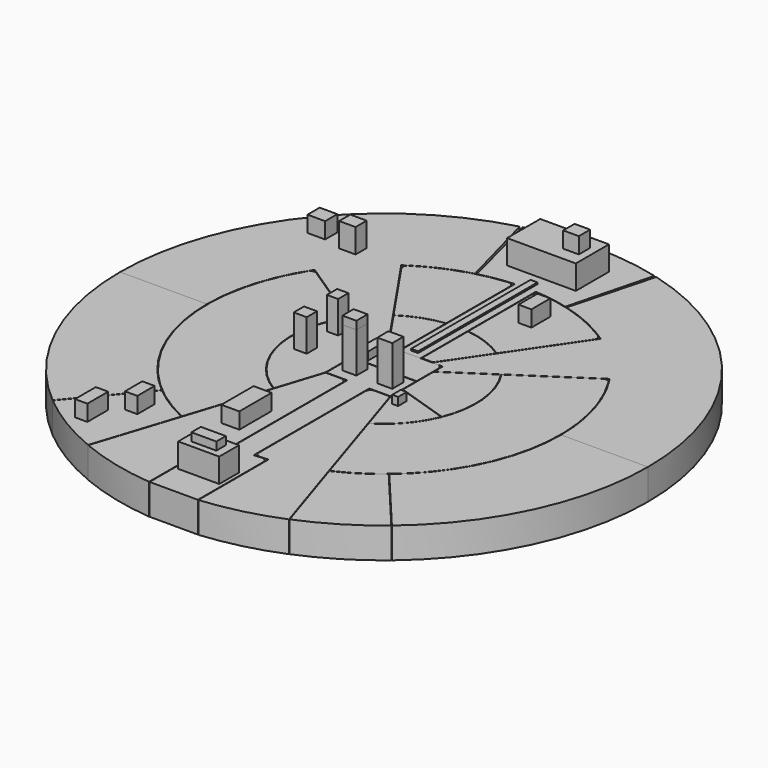
from build123d import *

# Parameters (mm, degrees)
F1_DEPTH  = 19.05
F3_DEPTH  = 19.05
F4_W      = 40
F4_H      = 20
F5_DEPTH  = 19.05
F7_DEPTH  = 19.05
F9_DEPTH  = 19.05
F11_DEPTH = 19.05
F13_DEPTH = 19.05
F15_DEPTH = 19.05
F17_DEPTH = 19.05
F19_DEPTH = 19.05
F21_DEPTH = 19.05
F22_DEPTH = 19.05
F23_W     = 42.694494
F23_H     = 25.732815
F24_DEPTH = 15
F25_W     = 9.696797
F25_H     = 8.815273
F26_DEPTH = 10
F27_W     = 8.664655
F27_H     = 8.664655
F28_DEPTH = 30
F27_W_2   = 9.283561
F29_DEPTH = 25
F31_DEPTH = 10
F32_W     = 10.194473
F32_H     = 8.664064
F33_DEPTH = 15
F34_W     = 11.186983
F34_H     = 25.065608
F35_DEPTH = 10
F36_W     = 25.501092
F36_H     = 15.349746
F37_DEPTH = 15
F38_W     = 15.501092
F38_H     = 7.349746
F39_DEPTH = 5
F40_W     = 7.685907
F40_H     = 13.450339
F40_H_2   = 16.140409
F41_DEPTH = 10
F42_W     = 6.977171
F42_H     = 7.973912
F42_W_2   = 8.03228
F43_DEPTH = 20
F44_W     = 3.668461
F44_H     = 6.657579
F45_DEPTH = 5
F46_W     = 5.645416
F46_H     = 13.329663
F47_DEPTH = 5
F48_W     = 4.315506
F48_H     = 92.669379
F49_DEPTH = 1
F50_W     = 7.973909
F50_H     = 14.701903
F51_DEPTH = 10
F52_R     = 3.2
F52_2_R   = 3.2
F52_3_R   = 3.2
F52_4_R   = 3.2


with BuildPart() as f1:
    # F0 (on Top) → F1 (new body)
    with BuildSketch(Plane.XY):
        with BuildLine():
            Line((42.446323, 158.411836), (28.470095, 106.251841))
            ThreePointArc((28.470095, 106.251841), (87.268867, 66.963757), (110, 0))
            Line((110, 0), (164, 0))
            ThreePointArc((164, 0), (130.109948, 99.836874), (42.446323, 158.411836))
        make_face()
        with BuildLine():
            ThreePointArc((-110, 0), (-87.268867, 66.963757), (-28.470095, 106.251841))
            Line((-28.470095, 106.251841), (-42.446323, 158.411836))
            ThreePointArc((-42.446323, 158.411836), (-130.109948, 99.836874), (-164, 0))
            Line((-164, 0), (-110, 0))
        make_face()
    extrude(amount=F1_DEPTH)

    # F2 (on Top) → F3 (join)
    with BuildSketch(Plane.XY):
        with BuildLine():
            Line((61.981404, 90.87522), (13.845606, 20.3))
            Line((13.845606, 20.3), (20.3, 20.3))
            Line((20.3, 20.3), (20.3, 13.460486))
            Line((20.3, 13.460486), (91.677088, 60.789074))
            ThreePointArc((91.677088, 60.789074), (78.288103, 77.272071), (61.981404, 90.87522))
        make_face()
        with BuildLine():
            Line((-20.3, 20.3), (-13.845606, 20.3))
            Line((-13.845606, 20.3), (-61.981404, 90.87522))
            ThreePointArc((-61.981404, 90.87522), (-78.288103, 77.272071), (-91.677088, 60.789074))
            Line((-91.677088, 60.789074), (-20.3, 13.460486))
            Line((-20.3, 13.460486), (-20.3, 20.3))
        make_face()
    extrude(amount=F3_DEPTH)


with BuildPart() as f5:
    # F4 (on Top) → F5 (new body, through all)
    with BuildSketch(Plane.XY):
        with Locations((0, 10.314065)):
            Rectangle(F4_W, F4_H)
    extrude(amount=F5_DEPTH)

    # F52#4
    f52_4_edges = [f5.edges().sort_by_distance(p)[0] for p in [
        (20, 20.314065, 9.525),
        (-20, 20.314065, 9.525),
    ]]
    fillet(f52_4_edges, radius=F52_4_R)


with BuildPart() as f7:
    # F6 (on Top) → F7 (new body)
    with BuildSketch(Plane.XY):
        with BuildLine():
            ThreePointArc((6.486864, 109.808563), (17.059147, 108.669156), (27.472017, 106.514263))
            Line((27.472017, 106.514263), (40.95828, 158.803083))
            ThreePointArc((40.95828, 158.803083), (0, 164), (-40.95828, 158.803083))
            Line((-40.95828, 158.803083), (-27.472017, 106.514263))
            ThreePointArc((-27.472017, 106.514263), (-17.059147, 108.669156), (-6.486864, 109.808563))
            Line((-6.486864, 109.808563), (-6.486864, 20.3))
            Line((-6.486864, 20.3), (6.486864, 20.3))
            Line((6.486864, 20.3), (6.486864, 109.808563))
        make_face()
    extrude(amount=F7_DEPTH)


with BuildPart() as f9:
    # F8 (on Top) → F9 (new body)
    with BuildSketch(Plane.XY):
        with BuildLine():
            ThreePointArc((59.729012, 88.10525), (60.219496, 90.554296), (58.800611, 92.609817))
            ThreePointArc((58.800611, 92.609817), (35.527719, 103.787625), (10.286939, 109.216615))
            ThreePointArc((10.286939, 109.216615), (7.832826, 108.397172), (6.786864, 106.030715))
            Line((6.786864, 106.030715), (6.786864, 56.896647))
            ThreePointArc((6.786864, 56.896647), (19.972372, 53.706558), (32.038393, 47.506119))
            Line((32.038393, 47.506119), (59.729012, 88.10525))
        make_face()
        with BuildLine():
            ThreePointArc((-58.800611, 92.609817), (-60.219496, 90.554296), (-59.729012, 88.10525))
            Line((-59.729012, 88.10525), (-32.038393, 47.506119))
            ThreePointArc((-32.038393, 47.506119), (-19.972372, 53.706558), (-6.786864, 56.896647))
            Line((-6.786864, 56.896647), (-6.786864, 106.030715))
            ThreePointArc((-6.786864, 106.030715), (-7.832826, 108.397172), (-10.286939, 109.216615))
            ThreePointArc((-10.286939, 109.216615), (-35.527719, 103.787625), (-58.800611, 92.609817))
        make_face()
    extrude(amount=F9_DEPTH)


with BuildPart() as f11:
    # F10 (on Top) → F11 (new body)
    with BuildSketch(Plane.XY):
        with BuildLine():
            Line((-13.802492, 20.769206), (-6.786864, 20.769206))
            Line((-6.786864, 20.769206), (-6.786864, 56.594509))
            ThreePointArc((-6.786864, 56.594509), (-19.883839, 53.419406), (-31.86935, 47.258275))
            Line((-31.86935, 47.258275), (-13.802492, 20.769206))
        make_face()
        with BuildLine():
            Line((13.802492, 20.769206), (31.86935, 47.258275))
            ThreePointArc((31.86935, 47.258275), (19.883839, 53.419406), (6.786864, 56.594509))
            Line((6.786864, 56.594509), (6.786864, 20.769206))
            Line((6.786864, 20.769206), (13.802492, 20.769206))
        make_face()
    extrude(amount=F11_DEPTH)


with BuildPart() as f13:
    # F12 (on Top) → F13 (new body)
    with BuildSketch(Plane.XY):
        with BuildLine():
            Line((20, 0), (-20, 0))
            Line((-20, 0), (-20, -20))
            Line((-20, -20), (-6.863987, -20))
            Line((-6.863987, -20), (-6.863987, -109.785635))
            ThreePointArc((-6.863987, -109.785635), (-10.939551, -109.454677), (-15, -108.972474))
            Line((-15, -108.972474), (-15, -163.312584))
            Line((-15, -163.312584), (15, -163.312584))
            Line((15, -163.312584), (15, -108.972474))
            ThreePointArc((15, -108.972474), (10.939551, -109.454677), (6.863987, -109.785635))
            Line((6.863987, -109.785635), (6.863987, -20))
            Line((6.863987, -20), (20, -20))
            Line((20, -20), (20, 0))
        make_face()
    extrude(amount=F13_DEPTH)

    # F52#3
    f52_3_edges = [f13.edges().sort_by_distance(p)[0] for p in [
        (-15, -108.972474, 9.525),
        (15, -108.972474, 9.525),
    ]]
    fillet(f52_3_edges, radius=F52_3_R)


with BuildPart() as f15:
    # F14 (on Top) → F15 (new body)
    with BuildSketch(Plane.XY):
        with BuildLine():
            Line((-45.70624, -100.204683), (-62.368435, -151.778037))
            ThreePointArc((-62.368435, -151.778037), (-39.271247, -159.324083), (-15.312946, -163.376583))
            Line((-15.312946, -163.376583), (-15.312946, -108.765933))
            ThreePointArc((-15.312946, -108.765933), (-11.244992, -109.191852), (-7.163987, -109.465827))
            Line((-7.163987, -109.465827), (-7.163987, -20.3))
            Line((-7.163987, -20.3), (-20.048166, -20.3))
            Line((-20.048166, -20.3), (-45.70624, -100.204683))
        make_face()
        with BuildLine():
            Line((20.048166, -20.3), (7.163987, -20.3))
            Line((7.163987, -20.3), (7.163987, -109.465827))
            ThreePointArc((7.163987, -109.465827), (11.244992, -109.191852), (15.312946, -108.765933))
            Line((15.312946, -108.765933), (15.312946, -163.376583))
            ThreePointArc((15.312946, -163.376583), (39.271247, -159.324083), (62.368435, -151.778037))
            Line((62.368435, -151.778037), (45.70624, -100.204683))
            Line((45.70624, -100.204683), (20.048166, -20.3))
        make_face()
    extrude(amount=F15_DEPTH)

    # F52#2
    f52_2_edges = [f15.edges().sort_by_distance(p)[0] for p in [
        (-7.163987, -20.3, 9.525),
        (7.163987, -20.3, 9.525),
        (-7.163987, -109.465827, 9.525),
        (7.163987, -109.465827, 9.525),
    ]]
    fillet(f52_2_edges, radius=F52_2_R)


with BuildPart() as f17:
    # F16 (on Top) → F17 (new body)
    with BuildSketch(Plane.XY):
        with BuildLine():
            Line((-70.476561, -84.457412), (-105.187178, -125.823915))
            ThreePointArc((-105.187178, -125.823915), (-84.884817, -140.323084), (-62.6181, -151.574977))
            Line((-62.6181, -151.574977), (-45.938642, -99.948192))
            ThreePointArc((-45.938642, -99.948192), (-58.72066, -93.015504), (-70.476561, -84.457412))
        make_face()
        with BuildLine():
            Line((105.187178, -125.823915), (70.476561, -84.457412))
            ThreePointArc((70.476561, -84.457412), (58.72066, -93.015504), (45.938642, -99.948192))
            Line((45.938642, -99.948192), (62.6181, -151.574977))
            ThreePointArc((62.6181, -151.574977), (84.884817, -140.323084), (105.187178, -125.823915))
        make_face()
    extrude(amount=F17_DEPTH)


with BuildPart() as f19:
    # F18 (on Top) → F19 (new body)
    with BuildSketch(Plane.XY):
        with BuildLine():
            Line((-20.3, 13.100527), (-47.670531, 31.249328))
            ThreePointArc((-47.670531, 31.249328), (-55.585658, -12.618821), (-29.505019, -48.769395))
            Line((-29.505019, -48.769395), (-20.3, -20.103015))
            Line((-20.3, -20.103015), (-20.3, 13.100527))
        make_face()
        with BuildLine():
            ThreePointArc((52.895096, -21.239324), (56.719714, 5.645712), (47.670531, 31.249328))
            Line((47.670531, 31.249328), (20.3, 13.100527))
            Line((20.3, 13.100527), (20.3, -10.686519))
            Line((20.3, -10.686519), (52.895096, -21.239324))
        make_face()
        with BuildLine():
            Line((20.3, -11.00185), (20.3, -20.103015))
            Line((20.3, -20.103015), (29.505019, -48.769395))
            ThreePointArc((29.505019, -48.769395), (43.341182, -37.020831), (52.782288, -21.518133))
            Line((52.782288, -21.518133), (20.3, -11.00185))
        make_face()
    extrude(amount=F19_DEPTH)


with BuildPart() as f21:
    # F20 (on Top) → F21 (new body)
    with BuildSketch(Plane.XY):
        with BuildLine():
            Line((-47.920562, 31.415119), (-91.592506, 60.37303))
            ThreePointArc((-91.592506, 60.37303), (-105.475321, -30.150402), (-45.846537, -99.660348))
            Line((-45.846537, -99.660348), (-29.59928, -49.062945))
            ThreePointArc((-29.59928, -49.062945), (-55.870486, -12.719229), (-47.920562, 31.415119))
        make_face()
        with BuildLine():
            ThreePointArc((45.846537, -99.660348), (105.475321, -30.150402), (91.592506, 60.37303))
            Line((91.592506, 60.37303), (47.920562, 31.415119))
            ThreePointArc((47.920562, 31.415119), (55.870486, -12.719229), (29.59928, -49.062945))
            Line((29.59928, -49.062945), (45.846537, -99.660348))
        make_face()
    extrude(amount=F21_DEPTH)

    # F52
    f52_edges = [f21.edges().sort_by_distance(p)[0] for p in [
        (91.592506, 60.37303, 9.525),
        (-91.592506, 60.37303, 9.525),
    ]]
    fillet(f52_edges, radius=F52_R)


with BuildPart() as f22:
    # F0 (on Top) → F22 (new body)
    with BuildSketch(Plane.XY):
        with BuildLine():
            ThreePointArc((-70.706637, -84.264889), (-99.693857, -46.488009), (-110, 0))
            Line((-110, 0), (-164, 0))
            ThreePointArc((-164, 0), (-148.634477, -69.309395), (-105.417168, -125.631289))
            Line((-105.417168, -125.631289), (-70.706637, -84.264889))
        make_face()
        with BuildLine():
            Line((164, 0), (110, 0))
            ThreePointArc((110, 0), (99.693857, -46.488009), (70.706637, -84.264889))
            Line((70.706637, -84.264889), (105.417168, -125.631289))
            ThreePointArc((105.417168, -125.631289), (148.634477, -69.309395), (164, 0))
        make_face()
    extrude(amount=F22_DEPTH)


with BuildPart() as f24:
    # F23 (on face) → F24 (new body)
    with BuildSketch(Plane.XY.offset(19.05)):
        with Locations((-0.273684, 135.509103)):
            Rectangle(F23_W, F23_H)
    extrude(amount=F24_DEPTH)

    # F25 (on face) → F26 (join)
    with BuildSketch(Plane.XY.offset(34.05)):
        with Locations((11.444967, 135.354332)):
            Rectangle(F25_W, F25_H)
    extrude(amount=F26_DEPTH)


with BuildPart() as f28:
    # F27 (on face) → F28 (new body)
    with BuildSketch(Plane.XY.offset(19.05)):
        with Locations((-10.791214, -9.03494)):
            Rectangle(F27_W, F27_H)
    extrude(amount=F28_DEPTH)


with BuildPart() as f29:
    # F27 (on face) → F29 (new body)
    with BuildSketch(Plane.XY.offset(19.05)):
        with Locations((-10.791214, -9.03494)):
            Rectangle(F27_W, F27_H)
        with Locations((11.179877, -9.03494)):
            Rectangle(F27_W_2, F27_H)
    extrude(amount=F29_DEPTH)


with BuildPart() as f31:
    # F30 (on face) → F31 (new body)
    with BuildSketch(Plane.XY.offset(19.05)):
        Polygon((-107.655764, 98.317012), (-118.619896, 98.317012), (-118.619896, 88.847987), (-107.655764, 88.847987), (-107.655764, 93.5825), align=None)
    extrude(amount=F31_DEPTH)


with BuildPart() as f33:
    # F32 (on face) → F33 (new body)
    with BuildSketch(Plane.XY.offset(19.05)):
        with Locations((-91.35459, 90.06707)):
            Rectangle(F32_W, F32_H)
    extrude(amount=F33_DEPTH)


with BuildPart() as f35:
    # F34 (on face) → F35 (new body)
    with BuildSketch(Plane.XY.offset(19.05)):
        with Locations((-20.906437, -80.707718)):
            Rectangle(F34_W, F34_H)
    extrude(amount=F35_DEPTH)


with BuildPart() as f37:
    # F36 (on face) → F37 (new body)
    with BuildSketch(Plane.XY.offset(19.05)):
        with Locations((0, -136.233643)):
            Rectangle(F36_W, F36_H)
    extrude(amount=F37_DEPTH)

    # F38 (on face) → F39 (join)
    with BuildSketch(Plane.XY.offset(34.05)):
        with Locations((0, -136.233643)):
            Rectangle(F38_W, F38_H)
    extrude(amount=F39_DEPTH)


with BuildPart() as f41:
    # F40 (on face) → F41 (new body)
    with BuildSketch(Plane.XY.offset(19.05)):
        with Locations((-67.977171, -104.681567)):
            Rectangle(F40_W, F40_H)
        with Locations((-81.811804, -124.857079)):
            Rectangle(F40_W, F40_H_2)
    extrude(amount=F41_DEPTH)


with BuildPart() as f43:
    # F42 (on face) → F43 (new body)
    with BuildSketch(Plane.XY.offset(19.05)):
        with Locations((-43.126836, 17.924563)):
            Rectangle(F42_W, F42_H)
        with Locations((-43.654391, -6.495541)):
            Rectangle(F42_W_2, F42_H)
    extrude(amount=F43_DEPTH)


with BuildPart() as f45:
    # F44 (on face) → F45 (new body)
    with BuildSketch(Plane.XY.offset(19.05)):
        with Locations((27.518299, -22.40112)):
            Rectangle(F44_W, F44_H)
    extrude(amount=F45_DEPTH)


with BuildPart() as f47:
    # F46 (on face) → F47 (new body)
    with BuildSketch(Plane.XY.offset(19.05)):
        with Locations((-14.659508, 9.154794)):
            Rectangle(F46_W, F46_H)
    extrude(amount=F47_DEPTH)


with BuildPart() as f49:
    # F48 (on face) → F49 (new body)
    with BuildSketch(Plane.XY.offset(19.05)):
        with Locations((0, 70.116411)):
            Rectangle(F48_W, F48_H)
    extrude(amount=F49_DEPTH)


with BuildPart() as f51:
    # F50 (on face) → F51 (new body)
    with BuildSketch(Plane.XY.offset(19.05)):
        with Locations((24.368561, 86.371123)):
            Rectangle(F50_W, F50_H)
    extrude(amount=F51_DEPTH)


solid = Compound([f1.part, f5.part, f7.part, f9.part, f11.part, f13.part, f15.part, f17.part, f19.part, f21.part, f22.part, f24.part, f28.part, f29.part, f31.part, f33.part, f35.part, f37.part, f41.part, f43.part, f45.part, f47.part, f49.part, f51.part])
